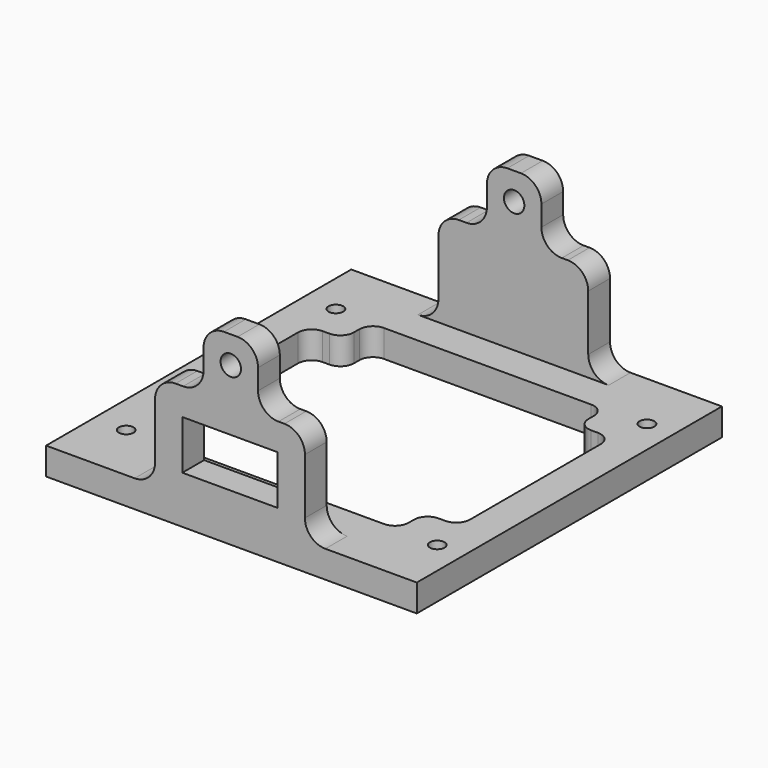
from build123d import *

# Parameters (mm, degrees)
F0_W      = 100.33
F0_H      = 71.12
F0_W_2    = 90.17
F0_H_2    = 60.96
F1_DEPTH  = 5.08
F2_W      = 100.33
F2_H      = 71.12
F3_DEPTH  = 5.08
F0_R      = 1.375
F4_DEPTH  = 25.4
F5_R      = 3.1
F5_R_2    = 1.375
F6_DEPTH  = 3.556
F7_DEPTH  = 37.592
F8_W      = 13.716
F8_H      = 3.556
F9_DEPTH  = 5.08
F10_W     = 10.668
F10_H     = 5.715
F10_W_2   = 17.78
F10_H_2   = 9.144
F10_W_3   = 9.398
F10_H_3   = 8.89
F11_DEPTH = 5.08
F12_W     = 53.8226
F12_H     = 18.161
F13_DEPTH = 5.08
F14_R     = 1.905
F15_DEPTH = 71.121
F17_DEPTH = 71.121
F19_DEPTH = 5.08


with BuildPart() as f1:
    # F0 (on Top) → F1 (new body)
    with BuildSketch(Plane.XY):
        with Locations((42.545, 27.94)):
            Rectangle(F0_W, F0_H)
        with Locations((42.545, 27.94)):
            Rectangle(F0_W_2, F0_H_2, mode=Mode.SUBTRACT)
    extrude(amount=-F1_DEPTH)

    # F2 (on face) → F3 (join)
    with BuildSketch(Plane(origin=(0, 0, -5.08), x_dir=(1, 0, 0), z_dir=(0, 0, -1))):
        with Locations((42.545, -27.94)):
            Rectangle(F2_W, F2_H)
    extrude(amount=F3_DEPTH)

    # F0 (on Top) → F4 (cut)
    with BuildSketch(Plane.XY):
        with Locations((3.5, 52.38)):
            Circle(F0_R)
        with Locations((61.5, 52.38)):
            Circle(F0_R)
        with Locations((61.5, 3.5)):
            Circle(F0_R)
        with Locations((3.5, 3.5)):
            Circle(F0_R)
    extrude(amount=-F4_DEPTH, mode=Mode.SUBTRACT)

    # F5 (on face) → F6 (join)
    with BuildSketch(Plane.XY.offset(-5.08)):
        with Locations((3.5, 52.38)):
            Circle(F5_R)
        with Locations((3.5, 52.38)):
            Circle(F5_R_2, mode=Mode.SUBTRACT)
        with Locations((61.5, 52.38)):
            Circle(F5_R)
        with Locations((61.5, 52.38)):
            Circle(F5_R_2, mode=Mode.SUBTRACT)
        with Locations((61.5, 3.5)):
            Circle(F5_R)
        with Locations((61.5, 3.5)):
            Circle(F5_R_2, mode=Mode.SUBTRACT)
        with Locations((3.5, 3.5)):
            Circle(F5_R)
        with Locations((3.5, 3.5)):
            Circle(F5_R_2, mode=Mode.SUBTRACT)
    extrude(amount=F6_DEPTH)

    # F0 (on Top) → F7 (join)
    with BuildSketch(Plane.XY):
        with Locations((42.545, 27.94)):
            Rectangle(F0_W, F0_H)
        with Locations((42.545, 27.94)):
            Rectangle(F0_W_2, F0_H_2, mode=Mode.SUBTRACT)
    extrude(amount=F7_DEPTH)

    # F8 (on face) → F9 (cut, through all)
    with BuildSketch(Plane(origin=(-7.62, 0, 0), x_dir=(0, -1, 0), z_dir=(-1, 0, 0))):
        with Locations((-27.94, -2.032)):
            Rectangle(F8_W, F8_H)
    extrude(amount=-F9_DEPTH, mode=Mode.SUBTRACT)

    # F10 (on face) → F11 (cut, through all)
    with BuildSketch(Plane.XZ.offset(7.62)):
        with Locations((10.922, 1.5875)):
            Rectangle(F10_W, F10_H)
        with Locations((31.75, 3.302)):
            Rectangle(F10_W_2, F10_H_2)
        with Locations((53.594, 3.175)):
            Rectangle(F10_W_3, F10_H_3)
    extrude(amount=-F11_DEPTH, mode=Mode.SUBTRACT)

    # F12 (on face) → F13 (cut, through all)
    with BuildSketch(Plane.YZ.offset(92.71)):
        with Locations((28.8163, 7.8105)):
            Rectangle(F12_W, F12_H)
    extrude(amount=-F13_DEPTH, mode=Mode.SUBTRACT)

    # F14 (on face) → F15 (cut, through all)
    with BuildSketch(Plane.XZ.offset(7.62)):
        with Locations((31.9024, 19.304)):
            Circle(F14_R)
    extrude(amount=-F15_DEPTH, mode=Mode.SUBTRACT)

    # F16 (on face) → F17 (cut, through all)
    with BuildSketch(Plane.XZ.offset(7.62)):
        with BuildLine():
            Line((66.58, -5.08), (66.58, -10.16))
            Line((66.58, -10.16), (92.71, -10.16))
            Line((92.71, -10.16), (92.71, 37.592))
            Line((92.71, 37.592), (-7.62, 37.592))
            Line((-7.62, 37.592), (-7.62, -10.16))
            Line((-7.62, -10.16), (-2.54, -10.16))
            Line((-2.54, -10.16), (-2.54, -5.08))
            Line((-2.54, -5.08), (13.97, -5.08))
            ThreePointArc((13.97, -5.08), (16.664077, -3.964077), (17.78, -1.27))
            Line((17.78, -1.27), (17.78, 9.144))
            ThreePointArc((17.78, 9.144), (18.895923, 11.838077), (21.59, 12.954))
            Line((21.59, 12.954), (23.0124, 12.954))
            ThreePointArc((23.0124, 12.954), (25.706477, 14.069923), (26.8224, 16.764))
            Line((26.8224, 16.764), (26.8224, 20.574))
            ThreePointArc((26.8224, 20.574), (27.938323, 23.268077), (30.6324, 24.384))
            Line((30.6324, 24.384), (33.1724, 24.384))
            ThreePointArc((33.1724, 24.384), (35.866477, 23.268077), (36.9824, 20.574))
            Line((36.9824, 20.574), (36.9824, 16.764))
            ThreePointArc((36.9824, 16.764), (38.098323, 14.069923), (40.7924, 12.954))
            Line((40.7924, 12.954), (41.91, 12.954))
            ThreePointArc((41.91, 12.954), (44.604077, 11.838077), (45.72, 9.144))
            Line((45.72, 9.144), (45.72, -1.27))
            ThreePointArc((45.72, -1.27), (46.835923, -3.964077), (49.53, -5.08))
            Line((49.53, -5.08), (66.58, -5.08))
        make_face()
    extrude(amount=-F17_DEPTH, mode=Mode.SUBTRACT)

    # F18 (on face) → F19 (cut, through all)
    with BuildSketch(Plane.XY.offset(-5.08)):
        with BuildLine():
            Line((56.42, 10.16), (57.69, 10.16))
            ThreePointArc((57.69, 10.16), (59.486051, 10.903949), (60.23, 12.7))
            Line((60.23, 12.7), (60.23, 43.18))
            ThreePointArc((60.23, 43.18), (59.486051, 44.976051), (57.69, 45.72))
            Line((57.69, 45.72), (56.42, 45.72))
            ThreePointArc((56.42, 45.72), (54.623949, 46.463949), (53.88, 48.26))
            Line((53.88, 48.26), (53.88, 49.53))
            ThreePointArc((53.88, 49.53), (53.136051, 51.326051), (51.34, 52.07))
            Line((51.34, 52.07), (12.7, 52.07))
            ThreePointArc((12.7, 52.07), (10.903949, 51.326051), (10.16, 49.53))
            Line((10.16, 49.53), (10.16, 48.26))
            ThreePointArc((10.16, 48.26), (9.416051, 46.463949), (7.62, 45.72))
            Line((7.62, 45.72), (6.35, 45.72))
            ThreePointArc((6.35, 45.72), (4.553949, 44.976051), (3.81, 43.18))
            Line((3.81, 43.18), (3.81, 12.7))
            ThreePointArc((3.81, 12.7), (4.553949, 10.903949), (6.35, 10.16))
            Line((6.35, 10.16), (7.62, 10.16))
            ThreePointArc((7.62, 10.16), (9.416051, 9.416051), (10.16, 7.62))
            Line((10.16, 7.62), (10.16, 6.35))
            ThreePointArc((10.16, 6.35), (10.903949, 4.553949), (12.7, 3.81))
            Line((12.7, 3.81), (51.34, 3.81))
            ThreePointArc((51.34, 3.81), (53.136051, 4.553949), (53.88, 6.35))
            Line((53.88, 6.35), (53.88, 7.62))
            ThreePointArc((53.88, 7.62), (54.623949, 9.416051), (56.42, 10.16))
        make_face()
    extrude(amount=-F19_DEPTH, mode=Mode.SUBTRACT)


solid = f1.part
